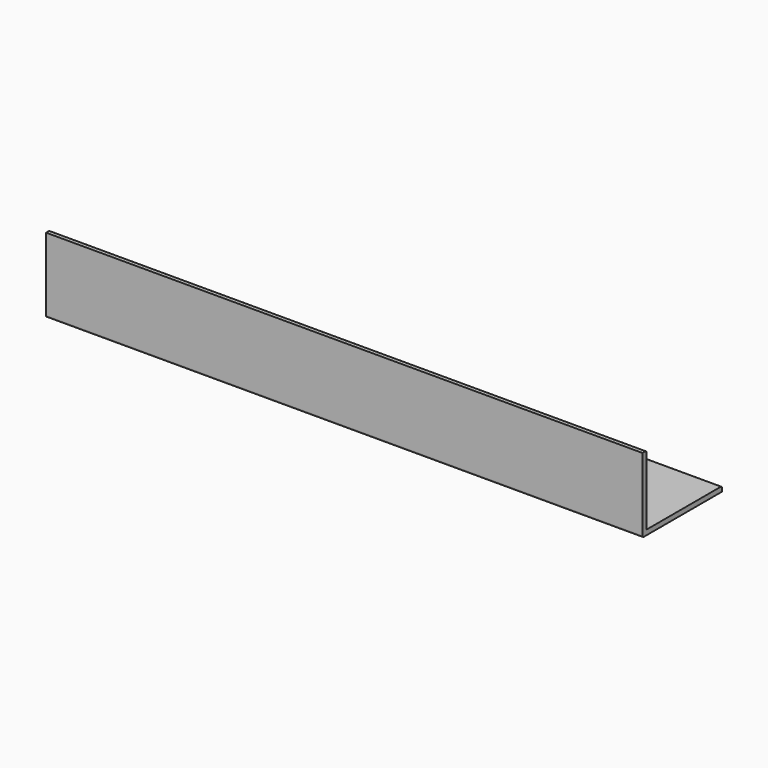
from build123d import *

# Parameters (mm, degrees)
F1_DEPTH = 304.8


with BuildPart() as f1:
    # F0 (on Right) → F1 (new body)
    with BuildSketch(Plane.YZ):
        with BuildLine():
            Line((-14.639986, 19.898164), (-16.386236, 19.898164))
            Line((-16.386236, 19.898164), (-16.386236, -17.408086))
            ThreePointArc((-16.386236, -17.408086), (-16.153752, -17.969352), (-15.592486, -18.201836))
            Line((-15.592486, -18.201836), (34.413764, -18.201836))
            Line((34.413764, -18.201836), (34.413764, -16.455586))
            ThreePointArc((34.413764, -16.455586), (34.18128, -15.89432), (33.620014, -15.661836))
            Line((33.620014, -15.661836), (-13.846236, -15.661836))
            Line((-13.846236, -15.661836), (-13.846236, 19.104414))
            ThreePointArc((-13.846236, 19.104414), (-14.07872, 19.66568), (-14.639986, 19.898164))
        make_face()
    extrude(amount=F1_DEPTH)


solid = f1.part
